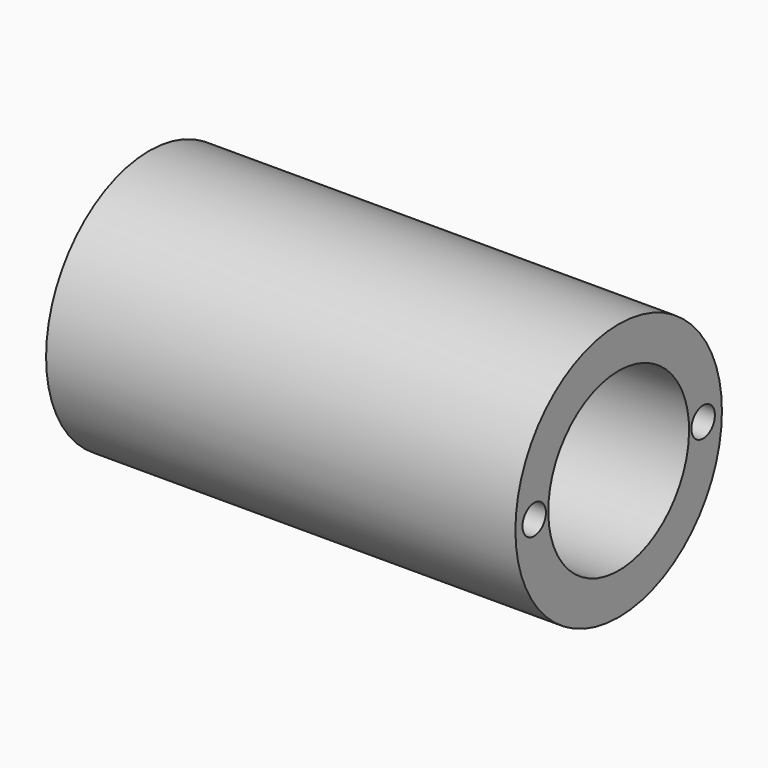
from build123d import *

# Parameters (mm, degrees)
F2_R     = 2.5
F3_DEPTH = 80.001


with BuildPart() as f1:
    # F0 (on Front) → F1 (revolve)
    with BuildSketch(Plane.XZ):
        Polygon((80, 22), (0, 22), (0, 20.773503), (10, 15), (80, 15), align=None)
    revolve(axis=Axis((81.875134, 0, 0), (1, 0, 0)))

    # F2 (on Right) → F3 (cut, through all)
    with BuildSketch(Plane.YZ):
        with Locations((18, 0)):
            Circle(F2_R)
        with Locations((-18, 0)):
            Circle(F2_R)
    extrude(amount=F3_DEPTH, mode=Mode.SUBTRACT)


solid = f1.part
